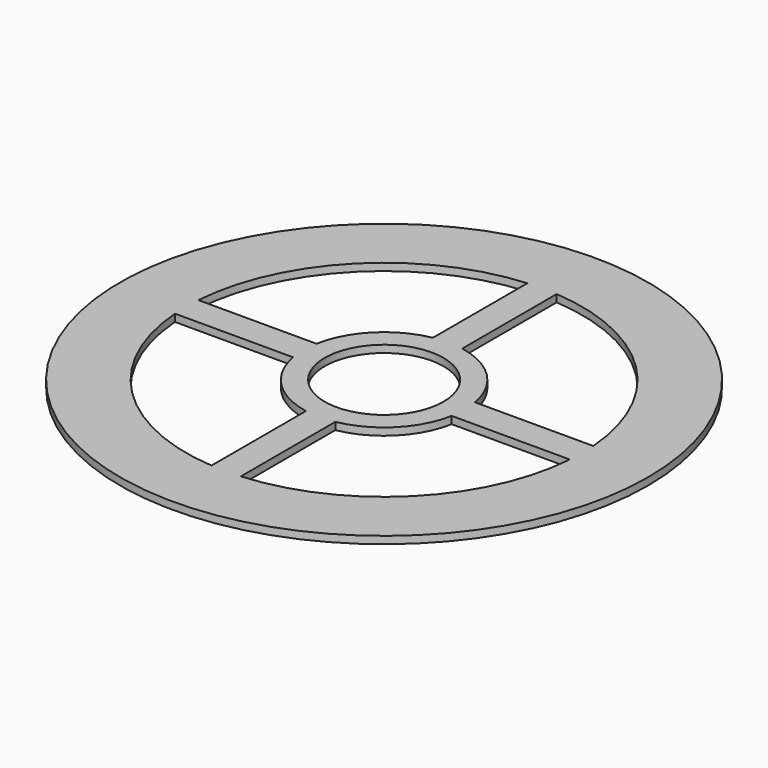
from build123d import *

# Parameters (mm, degrees)
F0_R     = 18
F1_DEPTH = 0.5
F2_R     = 4.05
F3_DEPTH = 0.5
F5_DEPTH = 0.5


with BuildPart() as f1:
    # F0 (on Top) → F1 (new body)
    with BuildSketch(Plane.XY):
        Circle(F0_R)
    extrude(amount=F1_DEPTH)

    # F2 (on face) → F3 (cut, through all)
    with BuildSketch(Plane.XY.offset(0.5)):
        Circle(F2_R)
    extrude(amount=-F3_DEPTH, mode=Mode.SUBTRACT)

    # F4 (on face) → F5 (cut, through all)
    with BuildSketch(Plane.XY.offset(0.5)):
        with BuildLine():
            Line((-1, -13.462912), (-1, -5.408327))
            ThreePointArc((-1, -5.408327), (-3.889087, -3.889087), (-5.408327, -1))
            Line((-5.408327, -1), (-13.462912, -1))
            ThreePointArc((-13.462912, -1), (-9.545942, -9.545942), (-1, -13.462912))
        make_face()
        with BuildLine():
            Line((13.462912, -1), (5.408327, -1))
            ThreePointArc((5.408327, -1), (3.889087, -3.889087), (1, -5.408327))
            Line((1, -5.408327), (1, -13.462912))
            ThreePointArc((1, -13.462912), (9.545942, -9.545942), (13.462912, -1))
        make_face()
        with BuildLine():
            ThreePointArc((1, 5.408327), (3.889087, 3.889087), (5.408327, 1))
            Line((5.408327, 1), (13.462912, 1))
            ThreePointArc((13.462912, 1), (9.545942, 9.545942), (1, 13.462912))
            Line((1, 13.462912), (1, 5.408327))
        make_face()
        with BuildLine():
            ThreePointArc((-5.408327, 1), (-3.889087, 3.889087), (-1, 5.408327))
            Line((-1, 5.408327), (-1, 13.462912))
            ThreePointArc((-1, 13.462912), (-9.545942, 9.545942), (-13.462912, 1))
            Line((-13.462912, 1), (-5.408327, 1))
        make_face()
    extrude(amount=-F5_DEPTH, mode=Mode.SUBTRACT)


solid = f1.part
